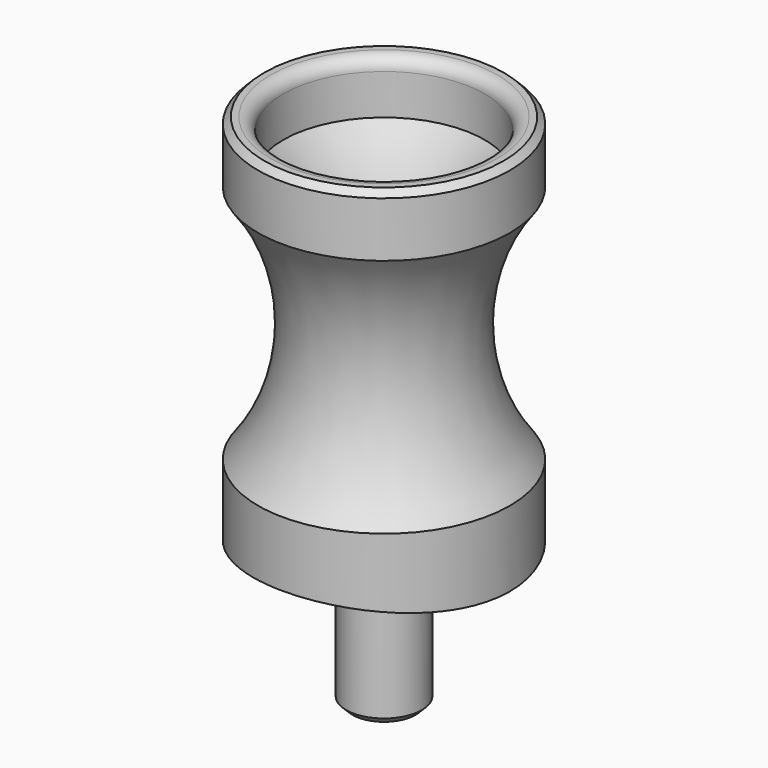
from build123d import *

# Parameters (mm, degrees)
F2_DEPTH = 12.5
F3_R     = 3
F4_DEPTH = 16
F5_SIZE  = 0.5
F6_SIZE  = 0.5


with BuildPart() as f1:
    # F0 (on Front) → F1 (revolve)
    with BuildSketch(Plane.XZ):
        with BuildLine():
            Line((0, 0), (0, 0.9005403525))
            ThreePointArc((0, 0.9005403525), (-5.0170534649, 0.6935333438), (-10, 0.0739195926))
            Line((-10, 0.0739195926), (-10, 0))
            Line((-10, 0), (0, 0))
        make_face()
        with BuildLine():
            ThreePointArc((-10, 0.0739195926), (-5.0170534649, 0.6935333438), (0, 0.9005403525))
            Line((0, 0.9005403525), (0, 5))
            Line((0, 5), (-3.694741217, 5))
            ThreePointArc((-3.694741217, 5), (-4.4495838523, 5.312666057), (-4.7622499093, 6.0675086923))
            Line((-4.7622499093, 6.0675086923), (-4.7622499093, 15.345285621))
            Line((-4.7622499093, 15.345285621), (-4.7622499093, 15.8448135736))
            ThreePointArc((-4.7622499093, 15.8448135736), (-5.6281002444, 21.0608384026), (-8, 25.7863757656))
            Line((-8, 25.7863757656), (-8, 29))
            ThreePointArc((-8, 29), (-8.2928932188, 29.7071067812), (-9, 30))
            Line((-9, 30), (-10, 30))
            Line((-10, 30), (-10, 25.1294640906))
            ThreePointArc((-10, 25.1294640906), (-6.7604826649, 15.5950495973), (-10, 6.0606351041))
            Line((-10, 6.0606351041), (-10, 0.0739195926))
        make_face()
    revolve(axis=Axis((0, 0, 31.9755728546), (0, 0, 1)))

    # F0 (on Front) → F2 (cut, symmetric)
    with BuildSketch(Plane.XZ):
        with BuildLine():
            Line((0, 0), (0, 0.9005403525))
            ThreePointArc((0, 0.9005403525), (-5.0170534649, 0.6935333438), (-10, 0.0739195926))
            Line((-10, 0.0739195926), (-10, 0))
            Line((-10, 0), (0, 0))
        make_face()
        with BuildLine():
            ThreePointArc((10, 0.0739195926), (5.0170534649, 0.6935333438), (0, 0.9005403525))
            Line((0, 0.9005403525), (0, 0))
            Line((0, 0), (10, 0))
            Line((10, 0), (10, 0.0739195926))
        make_face()
    extrude(amount=F2_DEPTH, both=True, mode=Mode.SUBTRACT)

    # F3 (on face) → F4 (join)
    with BuildSketch(Plane.XY.offset(5)):
        Circle(F3_R)
    extrude(amount=-F4_DEPTH)

    # F5
    f5_edges = [f1.edges().sort_by_distance(p)[0] for p in [
        (10, 0, 30),
    ]]
    chamfer(f5_edges, length=F5_SIZE)

    # F6
    f6_edges = [f1.edges().sort_by_distance(p)[0] for p in [
        (-3, 0, -11),
    ]]
    chamfer(f6_edges, length=F6_SIZE)


solid = f1.part
